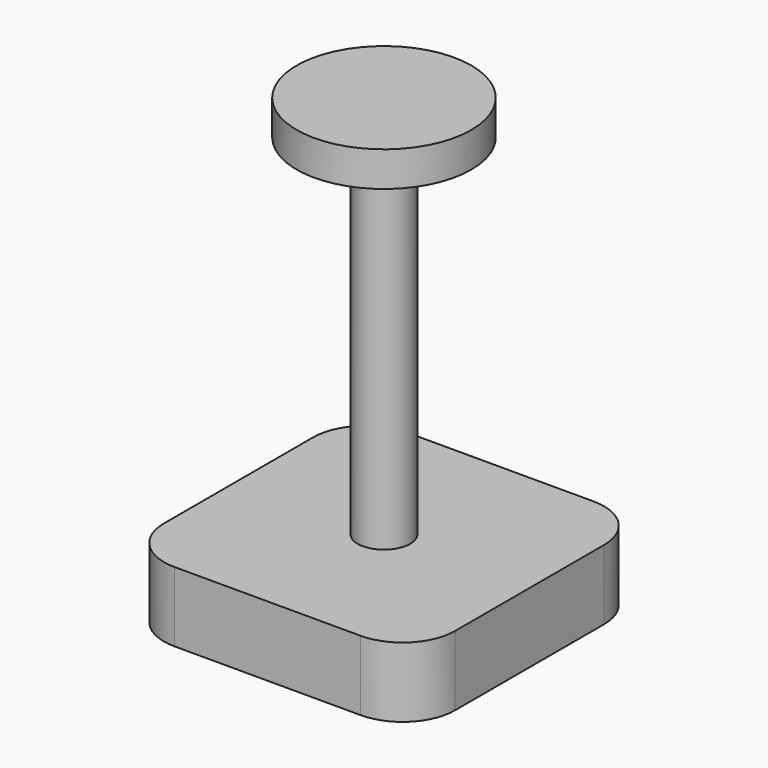
from build123d import *

# Parameters (mm, degrees)
F1_DEPTH = 25
F0_W     = 4.5
F0_H     = 60
F3_R     = 9


with BuildPart() as f1:
    # F0 (on Front) → F1 (new body, symmetric)
    with BuildSketch(Plane.XZ):
        Polygon((-25, 12), (-25, 0), (0, 0), (0, 12), (-4.5, 12), align=None)
        Polygon((0, 12), (0, 0), (25, 0), (25, 12), (4.5, 12), align=None)
    extrude(amount=F1_DEPTH, both=True)

    # F3
    f3_edges = [f1.edges().sort_by_distance(p)[0] for p in [
        (-25, -25, 6),
        (25, -25, 6),
        (25, 25, 6),
        (-25, 25, 6),
    ]]
    fillet(f3_edges, radius=F3_R)


with BuildPart() as f2:
    # F0 (on Front) → F2 (revolve)
    with BuildSketch(Plane.XZ):
        with Locations((2.25, 42)):
            Rectangle(F0_W, F0_H)
        Polygon((0, 78), (0, 72), (4.5, 72), (15, 72), (15, 78), align=None)
    revolve(axis=Axis((0, 0, 39), (0, 0, 1)))


solid = Compound([f1.part, f2.part])
